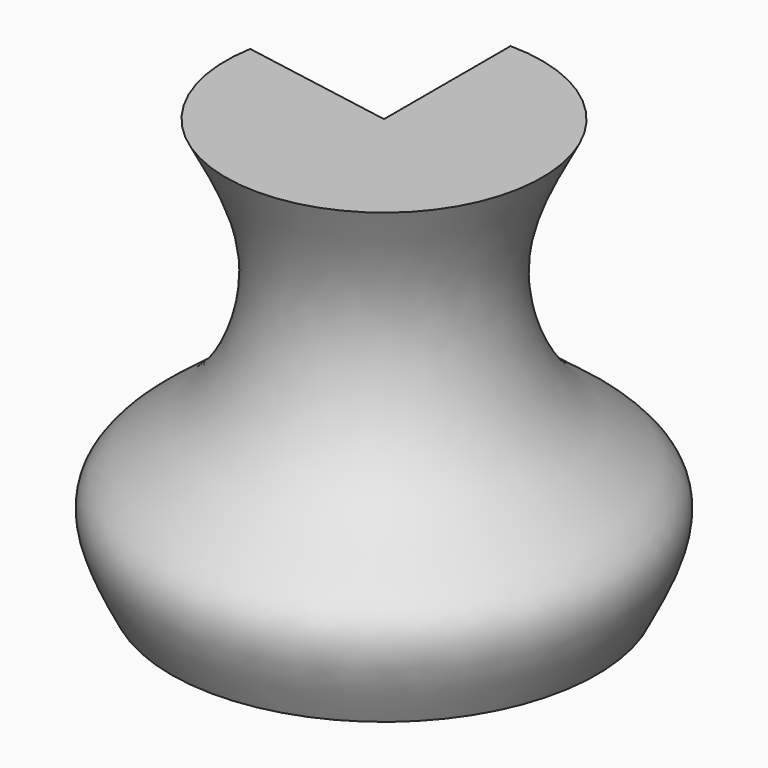
from build123d import *

# Parameters (mm, degrees)
F1_ANGLE = 280


with BuildPart() as f1:
    # F0 (on Right) → F1 (revolve)
    with BuildSketch(Plane.YZ):
        with BuildLine():
            Line((0, 57.5611554086), (0, 0))
            Line((0, 0), (29.16431427, 0))
            add(Edge.make_bspline(
                [(21.6813664883, 57.5611554086), (18.8067395897, 52.1483634575), (13.0002069603, 41.2149261146), (19.282465858, 21.519811466), (36.502661385, 14.3317014717), (31.5630932628, 4.6847858084), (29.16431427, 0)],
                knots=[0, 0, 0, 0, 0.2636859479, 0.5326260117, 0.7730313912, 1, 1, 1, 1], degree=3))
            Line((21.6813664883, 57.5611554086), (0, 57.5611554086))
        make_face()
    revolve(axis=Axis((0, 0, 28.7805777043), (0, 0, -1)), revolution_arc=F1_ANGLE)


solid = f1.part
